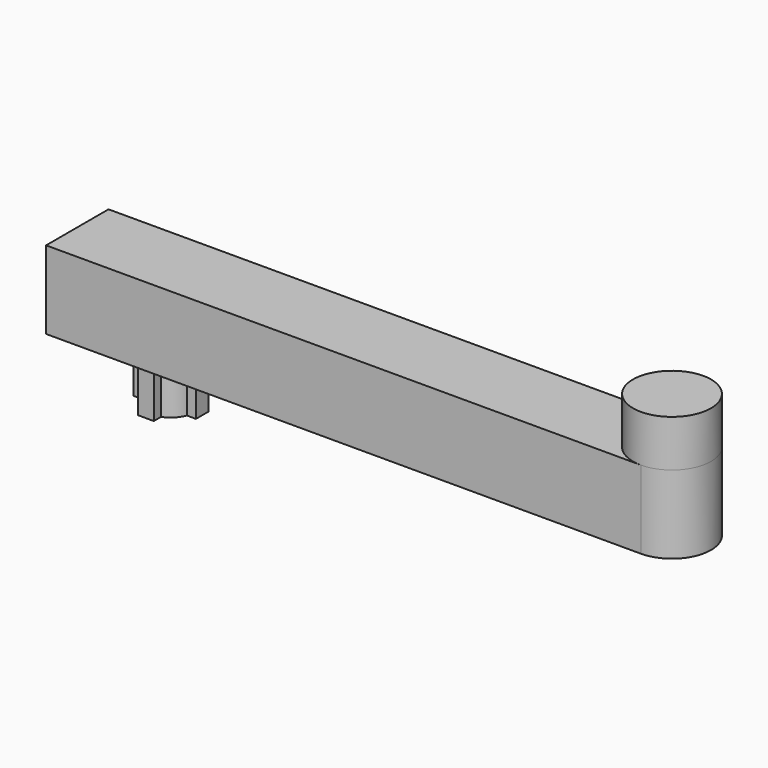
from build123d import *

# Parameters (mm, degrees)
F0_R     = 2.5
F1_DEPTH = 3
F3_DEPTH = 5
F5_DEPTH = 3


with BuildPart() as f1:
    # F0 (on Top) → F1 (new body)
    with BuildSketch(Plane.XY):
        Circle(F0_R)
    extrude(amount=-F1_DEPTH)

    # F2 (on face) → F3 (join)
    with BuildSketch(Plane(origin=(0, 0, -3), x_dir=(1, 0, 0), z_dir=(0, 0, -1))):
        with BuildLine():
            Line((-38.1, -2.5), (0, -2.5))
            ThreePointArc((0, -2.5), (2.5, 0), (0, 2.5))
            Line((0, 2.5), (-38.1, 2.5))
            Line((-38.1, 2.5), (-38.1, -2.5))
        make_face()
    extrude(amount=F3_DEPTH)

    # F4 (on face) → F5 (join)
    with BuildSketch(Plane(origin=(0, 0, -8), x_dir=(1, 0, 0), z_dir=(0, 0, -1))):
        with BuildLine():
            Line((-32.6, 2), (-32.6, 1.414214))
            ThreePointArc((-32.6, 1.414214), (-33.16066, 1.06066), (-33.514214, 0.5))
            Line((-33.514214, 0.5), (-34.1, 0.5))
            Line((-34.1, 0.5), (-34.1, -0.5))
            Line((-34.1, -0.5), (-33.514214, -0.5))
            ThreePointArc((-33.514214, -0.5), (-33.16066, -1.06066), (-32.6, -1.414214))
            Line((-32.6, -1.414214), (-32.6, -2))
            Line((-32.6, -2), (-31.6, -2))
            Line((-31.6, -2), (-31.6, -1.414214))
            ThreePointArc((-31.6, -1.414214), (-31.03934, -1.06066), (-30.685786, -0.5))
            Line((-30.685786, -0.5), (-30.1, -0.5))
            Line((-30.1, -0.5), (-30.1, 0.5))
            Line((-30.1, 0.5), (-30.685786, 0.5))
            ThreePointArc((-30.685786, 0.5), (-31.03934, 1.06066), (-31.6, 1.414214))
            Line((-31.6, 1.414214), (-31.6, 2))
            Line((-31.6, 2), (-32.6, 2))
        make_face()
    extrude(amount=F5_DEPTH)


solid = f1.part
